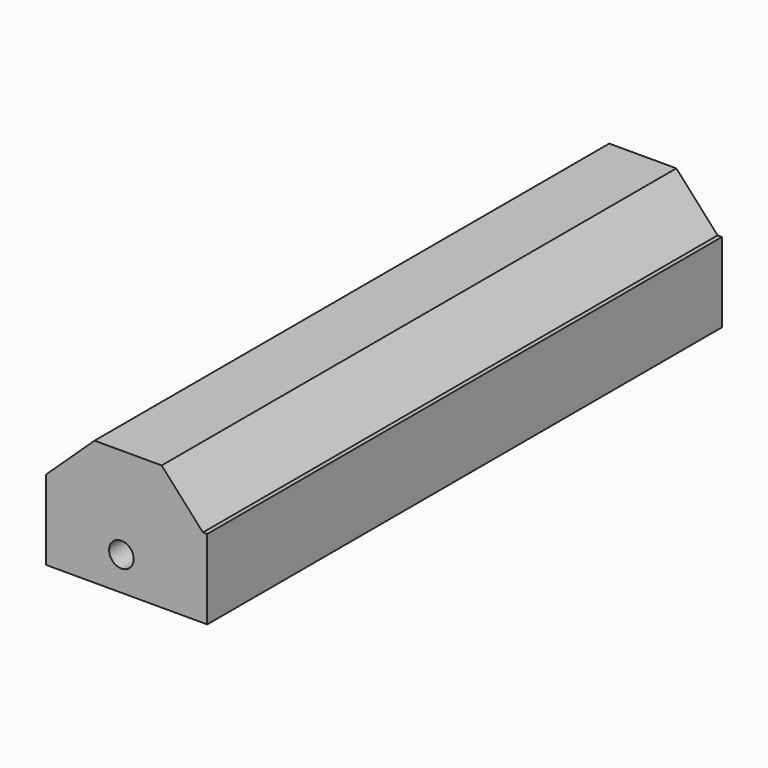
from build123d import *

# Parameters (mm, degrees)
F0_R     = 4.364763
F1_DEPTH = 228.6
F2_R     = 4.118273
F2_R_2   = 7.189832
F2_R_3   = 4.635799
F3_DEPTH = 25.4


with BuildPart() as f1:
    # F0 (on Front) → F1 (new body)
    with BuildSketch(Plane.XZ):
        Polygon((-57.259552, 0), (0, 0), (0, 28.288946), (-1.533737, 28.288946), (-57.259552, 28.288946), align=None)
        with Locations((-30.504346, 11.929073)):
            Circle(F0_R, mode=Mode.SUBTRACT)
        Polygon((-40.047605, 44.478402), (-57.259552, 28.288946), (-1.533737, 28.288946), (-16.189458, 44.478402), align=None)
    extrude(amount=F1_DEPTH)

    # F2 (on face) → F3 (join)
    with BuildSketch(Plane.XY.offset(44.478402)):
        with Locations((-31.015592, -27.802045)):
            Circle(F2_R)
        with Locations((-31.015592, -55.409327)):
            Circle(F2_R_2)
        with Locations((-28.970607, -90.514891)):
            Circle(F2_R_3)
    extrude(amount=-F3_DEPTH)


solid = f1.part
